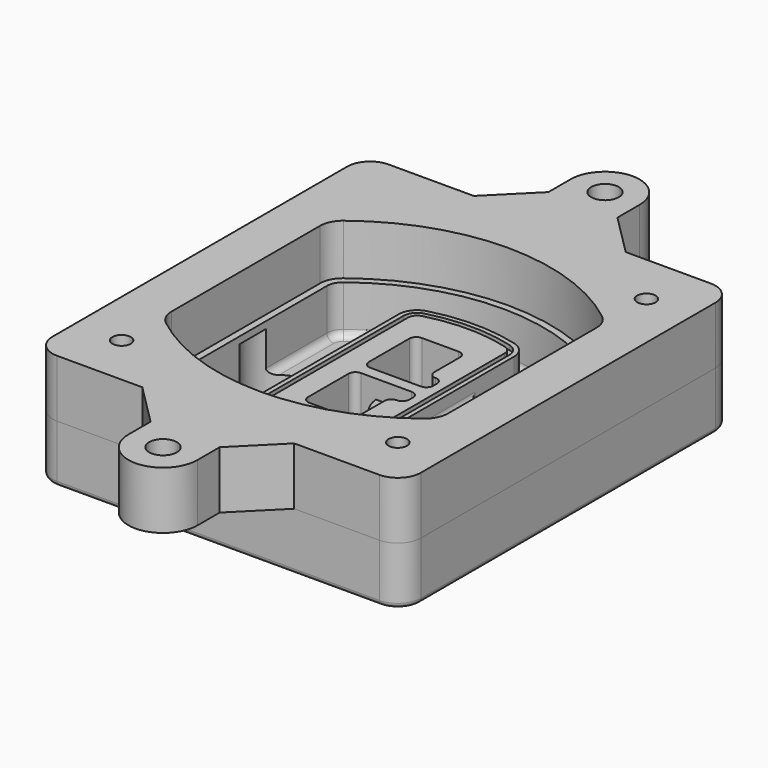
from build123d import *

# Parameters (mm, degrees)
F0_R      = 4
F1_DEPTH  = 25
F2_DEPTH  = 3
F3_DEPTH  = 18
F5_DEPTH  = 21
F6_DEPTH  = 2
F8_DEPTH  = 20
F9_DEPTH  = 16
F10_DEPTH = 25
F7_R      = 6
F7_R_2    = 4
F11_DEPTH = 6
F13_DEPTH = 9
F14_R     = 3
F15_R     = 2
F16_R     = 4
F16_R_2   = 6
F17_DEPTH = 25


with BuildPart() as f1:
    # F0 (on Top) → F1 (new body)
    with BuildSketch(Plane.XY):
        with BuildLine():
            ThreePointArc((-80, -80), (-77.0710678119, -87.0710678119), (-70, -90))
            Line((-70, -90), (70, -90))
            ThreePointArc((70, -90), (77.0710678119, -87.0710678119), (80, -80))
            Line((80, -80), (80, 80))
            ThreePointArc((80, 80), (77.0710678119, 87.0710678119), (70, 90))
            Line((70, 90), (-70, 90))
            ThreePointArc((-70, 90), (-77.0710678119, 87.0710678119), (-80, 80))
            Line((-80, 80), (-80, -80))
        make_face()
        with Locations((-60, -67.5)):
            Circle(F0_R, mode=Mode.SUBTRACT)
        with Locations((60, -67.5)):
            Circle(F0_R, mode=Mode.SUBTRACT)
        with Locations((-60, 67.5)):
            Circle(F0_R, mode=Mode.SUBTRACT)
        with BuildLine():
            ThreePointArc((-64, 40.2934422872), (-62.5820384798, 46.4328484224), (-58.6153846154, 51.3286200352))
            ThreePointArc((-58.6153846154, 51.3286200352), (0, 71.5), (58.6153846154, 51.3286200352))
            ThreePointArc((58.6153846154, 51.3286200352), (62.5820384798, 46.4328484224), (64, 40.2934422872))
            Line((64, 40.2934422872), (64, -40.2934422872))
            ThreePointArc((64, -40.2934422872), (62.5820384798, -46.4328484224), (58.6153846154, -51.3286200352))
            ThreePointArc((58.6153846154, -51.3286200352), (0, -71.5), (-58.6153846154, -51.3286200352))
            ThreePointArc((-58.6153846154, -51.3286200352), (-62.5820384798, -46.4328484224), (-64, -40.2934422872))
            Line((-64, -40.2934422872), (-64, 40.2934422872))
        make_face(mode=Mode.SUBTRACT)
        with Locations((60, 67.5)):
            Circle(F0_R, mode=Mode.SUBTRACT)
        with BuildLine():
            ThreePointArc((58.6153846154, 51.3286200352), (0, 71.5), (-58.6153846154, 51.3286200352))
            ThreePointArc((-58.6153846154, 51.3286200352), (-62.5820384798, 46.4328484224), (-64, 40.2934422872))
            Line((-64, 40.2934422872), (-64, -40.2934422872))
            ThreePointArc((-64, -40.2934422872), (-62.5820384798, -46.4328484224), (-58.6153846154, -51.3286200352))
            ThreePointArc((-58.6153846154, -51.3286200352), (0, -71.5), (58.6153846154, -51.3286200352))
            ThreePointArc((58.6153846154, -51.3286200352), (62.5820384798, -46.4328484224), (64, -40.2934422872))
            Line((64, -40.2934422872), (64, 40.2934422872))
            ThreePointArc((64, 40.2934422872), (62.5820384798, 46.4328484224), (58.6153846154, 51.3286200352))
        make_face()
        with BuildLine():
            Line((-60, -40.2934422872), (-60, 40.2934422872))
            ThreePointArc((-60, 40.2934422872), (-58.9871703427, 44.6787323838), (-56.1538461538, 48.1757121072))
            ThreePointArc((-56.1538461538, 48.1757121072), (0, 67.5), (56.1538461538, 48.1757121072))
            ThreePointArc((56.1538461538, 48.1757121072), (58.9871703427, 44.6787323838), (60, 40.2934422872))
            Line((60, 40.2934422872), (60, -40.2934422872))
            ThreePointArc((60, -40.2934422872), (58.9871703427, -44.6787323838), (56.1538461538, -48.1757121072))
            ThreePointArc((56.1538461538, -48.1757121072), (0, -67.5), (-56.1538461538, -48.1757121072))
            ThreePointArc((-56.1538461538, -48.1757121072), (-58.9871703427, -44.6787323838), (-60, -40.2934422872))
        make_face(mode=Mode.SUBTRACT)
        with BuildLine():
            ThreePointArc((-56.1538461538, 48.1757121072), (-58.9871703427, 44.6787323838), (-60, 40.2934422872))
            Line((-60, 40.2934422872), (-60, -40.2934422872))
            ThreePointArc((-60, -40.2934422872), (-58.9871703427, -44.6787323838), (-56.1538461538, -48.1757121072))
            ThreePointArc((-56.1538461538, -48.1757121072), (0, -67.5), (56.1538461538, -48.1757121072))
            ThreePointArc((56.1538461538, -48.1757121072), (58.9871703427, -44.6787323838), (60, -40.2934422872))
            Line((60, -40.2934422872), (60, 40.2934422872))
            ThreePointArc((60, 40.2934422872), (58.9871703427, 44.6787323838), (56.1538461538, 48.1757121072))
            ThreePointArc((56.1538461538, 48.1757121072), (0, 67.5), (-56.1538461538, 48.1757121072))
        make_face()
        with BuildLine():
            ThreePointArc((54.3076923077, 45.8110311612), (56.2910192399, 43.3631453548), (57, 40.2934422872))
            Line((57, 40.2934422872), (57, -40.2934422872))
            ThreePointArc((57, -40.2934422872), (56.2910192399, -43.3631453548), (54.3076923077, -45.8110311612))
            ThreePointArc((54.3076923077, -45.8110311612), (0, -64.5), (-54.3076923077, -45.8110311612))
            ThreePointArc((-54.3076923077, -45.8110311612), (-56.2910192399, -43.3631453548), (-57, -40.2934422872))
            Line((-57, -40.2934422872), (-57, 40.2934422872))
            ThreePointArc((-57, 40.2934422872), (-56.2910192399, 43.3631453548), (-54.3076923077, 45.8110311612))
            ThreePointArc((-54.3076923077, 45.8110311612), (0, 64.5), (54.3076923077, 45.8110311612))
        make_face(mode=Mode.SUBTRACT)
        with BuildLine():
            Line((57, -40.2934422872), (57, 40.2934422872))
            ThreePointArc((57, 40.2934422872), (56.2910192399, 43.3631453548), (54.3076923077, 45.8110311612))
            ThreePointArc((54.3076923077, 45.8110311612), (0, 64.5), (-54.3076923077, 45.8110311612))
            ThreePointArc((-54.3076923077, 45.8110311612), (-56.2910192399, 43.3631453548), (-57, 40.2934422872))
            Line((-57, 40.2934422872), (-57, -40.2934422872))
            ThreePointArc((-57, -40.2934422872), (-56.2910192399, -43.3631453548), (-54.3076923077, -45.8110311612))
            ThreePointArc((-54.3076923077, -45.8110311612), (0, -64.5), (54.3076923077, -45.8110311612))
            ThreePointArc((54.3076923077, -45.8110311612), (56.2910192399, -43.3631453548), (57, -40.2934422872))
        make_face()
    extrude(amount=-F1_DEPTH)

    # F0 (on Top) → F2 (join)
    with BuildSketch(Plane.XY):
        with BuildLine():
            ThreePointArc((-56.1538461538, 48.1757121072), (-58.9871703427, 44.6787323838), (-60, 40.2934422872))
            Line((-60, 40.2934422872), (-60, -40.2934422872))
            ThreePointArc((-60, -40.2934422872), (-58.9871703427, -44.6787323838), (-56.1538461538, -48.1757121072))
            ThreePointArc((-56.1538461538, -48.1757121072), (0, -67.5), (56.1538461538, -48.1757121072))
            ThreePointArc((56.1538461538, -48.1757121072), (58.9871703427, -44.6787323838), (60, -40.2934422872))
            Line((60, -40.2934422872), (60, 40.2934422872))
            ThreePointArc((60, 40.2934422872), (58.9871703427, 44.6787323838), (56.1538461538, 48.1757121072))
            ThreePointArc((56.1538461538, 48.1757121072), (0, 67.5), (-56.1538461538, 48.1757121072))
        make_face()
        with BuildLine():
            ThreePointArc((54.3076923077, 45.8110311612), (56.2910192399, 43.3631453548), (57, 40.2934422872))
            Line((57, 40.2934422872), (57, -40.2934422872))
            ThreePointArc((57, -40.2934422872), (56.2910192399, -43.3631453548), (54.3076923077, -45.8110311612))
            ThreePointArc((54.3076923077, -45.8110311612), (0, -64.5), (-54.3076923077, -45.8110311612))
            ThreePointArc((-54.3076923077, -45.8110311612), (-56.2910192399, -43.3631453548), (-57, -40.2934422872))
            Line((-57, -40.2934422872), (-57, 40.2934422872))
            ThreePointArc((-57, 40.2934422872), (-56.2910192399, 43.3631453548), (-54.3076923077, 45.8110311612))
            ThreePointArc((-54.3076923077, 45.8110311612), (0, 64.5), (54.3076923077, 45.8110311612))
        make_face(mode=Mode.SUBTRACT)
    extrude(amount=F2_DEPTH)

    # F0 (on Top) → F3 (cut)
    with BuildSketch(Plane.XY):
        with BuildLine():
            Line((57, -40.2934422872), (57, 40.2934422872))
            ThreePointArc((57, 40.2934422872), (56.2910192399, 43.3631453548), (54.3076923077, 45.8110311612))
            ThreePointArc((54.3076923077, 45.8110311612), (0, 64.5), (-54.3076923077, 45.8110311612))
            ThreePointArc((-54.3076923077, 45.8110311612), (-56.2910192399, 43.3631453548), (-57, 40.2934422872))
            Line((-57, 40.2934422872), (-57, -40.2934422872))
            ThreePointArc((-57, -40.2934422872), (-56.2910192399, -43.3631453548), (-54.3076923077, -45.8110311612))
            ThreePointArc((-54.3076923077, -45.8110311612), (0, -64.5), (54.3076923077, -45.8110311612))
            ThreePointArc((54.3076923077, -45.8110311612), (56.2910192399, -43.3631453548), (57, -40.2934422872))
        make_face()
    extrude(amount=-F3_DEPTH, mode=Mode.SUBTRACT)

    # F4 (on face) → F5 (join, through all)
    with BuildSketch(Plane.XY.offset(3)):
        with BuildLine():
            ThreePointArc((-25, -39.2465276821), (-23.3511545998, -44.1109737193), (-19.0842911877, -46.9702398883))
            ThreePointArc((-19.0842911877, -46.9702398883), (0, -49.5), (19.0842911877, -46.9702398883))
            ThreePointArc((19.0842911877, -46.9702398883), (23.3511545998, -44.1109737193), (25, -39.2465276821))
            Line((25, -39.2465276821), (25, 39.2465276821))
            ThreePointArc((25, 39.2465276821), (23.3511545998, 44.1109737193), (19.0842911877, 46.9702398883))
            ThreePointArc((19.0842911877, 46.9702398883), (0, 49.5), (-19.0842911877, 46.9702398883))
            ThreePointArc((-19.0842911877, 46.9702398883), (-23.3511545998, 44.1109737193), (-25, 39.2465276821))
            Line((-25, 39.2465276821), (-25, -39.2465276821))
        make_face()
        with BuildLine():
            ThreePointArc((18.5632183908, 45.0393118368), (21.7633659499, 42.89486221), (23, 39.2465276821))
            Line((23, 39.2465276821), (23, -39.2465276821))
            ThreePointArc((23, -39.2465276821), (21.7633659499, -42.89486221), (18.5632183908, -45.0393118368))
            ThreePointArc((18.5632183908, -45.0393118368), (0, -47.5), (-18.5632183908, -45.0393118368))
            ThreePointArc((-18.5632183908, -45.0393118368), (-21.7633659499, -42.89486221), (-23, -39.2465276821))
            Line((-23, -39.2465276821), (-23, 39.2465276821))
            ThreePointArc((-23, 39.2465276821), (-21.7633659499, 42.89486221), (-18.5632183908, 45.0393118368))
            ThreePointArc((-18.5632183908, 45.0393118368), (0, 47.5), (18.5632183908, 45.0393118368))
        make_face(mode=Mode.SUBTRACT)
        with BuildLine():
            Line((23, -39.2465276821), (23, 39.2465276821))
            ThreePointArc((23, 39.2465276821), (21.7633659499, 42.89486221), (18.5632183908, 45.0393118368))
            ThreePointArc((18.5632183908, 45.0393118368), (0, 47.5), (-18.5632183908, 45.0393118368))
            ThreePointArc((-18.5632183908, 45.0393118368), (-21.7633659499, 42.89486221), (-23, 39.2465276821))
            Line((-23, 39.2465276821), (-23, -39.2465276821))
            ThreePointArc((-23, -39.2465276821), (-21.7633659499, -42.89486221), (-18.5632183908, -45.0393118368))
            ThreePointArc((-18.5632183908, -45.0393118368), (0, -47.5), (18.5632183908, -45.0393118368))
            ThreePointArc((18.5632183908, -45.0393118368), (21.7633659499, -42.89486221), (23, -39.2465276821))
        make_face()
        with BuildLine():
            ThreePointArc((18.0421455939, 43.1083837852), (20.1755772999, 41.6787507007), (21, 39.2465276821))
            Line((21, 39.2465276821), (21, -39.2465276821))
            ThreePointArc((21, -39.2465276821), (20.1755772999, -41.6787507007), (18.0421455939, -43.1083837852))
            ThreePointArc((18.0421455939, -43.1083837852), (0, -45.5), (-18.0421455939, -43.1083837852))
            ThreePointArc((-18.0421455939, -43.1083837852), (-20.1755772999, -41.6787507007), (-21, -39.2465276821))
            Line((-21, -39.2465276821), (-21, 39.2465276821))
            ThreePointArc((-21, 39.2465276821), (-20.1755772999, 41.6787507007), (-18.0421455939, 43.1083837852))
            ThreePointArc((-18.0421455939, 43.1083837852), (0, 45.5), (18.0421455939, 43.1083837852))
        make_face(mode=Mode.SUBTRACT)
        with BuildLine():
            Line((21, -39.2465276821), (21, 39.2465276821))
            ThreePointArc((21, 39.2465276821), (20.1755772999, 41.6787507007), (18.0421455939, 43.1083837852))
            ThreePointArc((18.0421455939, 43.1083837852), (0, 45.5), (-18.0421455939, 43.1083837852))
            ThreePointArc((-18.0421455939, 43.1083837852), (-20.1755772999, 41.6787507007), (-21, 39.2465276821))
            Line((-21, 39.2465276821), (-21, -39.2465276821))
            ThreePointArc((-21, -39.2465276821), (-20.1755772999, -41.6787507007), (-18.0421455939, -43.1083837852))
            ThreePointArc((-18.0421455939, -43.1083837852), (0, -45.5), (18.0421455939, -43.1083837852))
            ThreePointArc((18.0421455939, -43.1083837852), (20.1755772999, -41.6787507007), (21, -39.2465276821))
        make_face()
        with BuildLine():
            Line((-8, -2.5), (14, -2.5))
            ThreePointArc((14, -2.5), (16.1213203436, -3.3786796564), (17, -5.5))
            Line((17, -5.5), (17, -7.5))
            ThreePointArc((17, -7.5), (16.1213203436, -9.6213203436), (14, -10.5))
            ThreePointArc((14, -10.5), (11.8786796564, -11.3786796564), (11, -13.5))
            Line((11, -13.5), (11, -27.5))
            ThreePointArc((11, -27.5), (10.1213203436, -29.6213203436), (8, -30.5))
            Line((8, -30.5), (-8, -30.5))
            ThreePointArc((-8, -30.5), (-10.1213203436, -29.6213203436), (-11, -27.5))
            Line((-11, -27.5), (-11, -5.5))
            ThreePointArc((-11, -5.5), (-10.1213203436, -3.3786796564), (-8, -2.5))
        make_face(mode=Mode.SUBTRACT)
        with BuildLine():
            ThreePointArc((-8, 2.5), (-10.1213203436, 3.3786796564), (-11, 5.5))
            Line((-11, 5.5), (-11, 27.5))
            ThreePointArc((-11, 27.5), (-10.1213203436, 29.6213203436), (-8, 30.5))
            Line((-8, 30.5), (8, 30.5))
            ThreePointArc((8, 30.5), (10.1213203436, 29.6213203436), (11, 27.5))
            Line((11, 27.5), (11, 13.5))
            ThreePointArc((11, 13.5), (11.8786796564, 11.3786796564), (14, 10.5))
            ThreePointArc((14, 10.5), (16.1213203436, 9.6213203436), (17, 7.5))
            Line((17, 7.5), (17, 5.5))
            ThreePointArc((17, 5.5), (16.1213203436, 3.3786796564), (14, 2.5))
            Line((14, 2.5), (-8, 2.5))
        make_face(mode=Mode.SUBTRACT)
    extrude(amount=-F5_DEPTH)

    # F4 (on face) → F6 (cut)
    with BuildSketch(Plane.XY.offset(3)):
        with BuildLine():
            Line((23, -39.2465276821), (23, 39.2465276821))
            ThreePointArc((23, 39.2465276821), (21.7633659499, 42.89486221), (18.5632183908, 45.0393118368))
            ThreePointArc((18.5632183908, 45.0393118368), (0, 47.5), (-18.5632183908, 45.0393118368))
            ThreePointArc((-18.5632183908, 45.0393118368), (-21.7633659499, 42.89486221), (-23, 39.2465276821))
            Line((-23, 39.2465276821), (-23, -39.2465276821))
            ThreePointArc((-23, -39.2465276821), (-21.7633659499, -42.89486221), (-18.5632183908, -45.0393118368))
            ThreePointArc((-18.5632183908, -45.0393118368), (0, -47.5), (18.5632183908, -45.0393118368))
            ThreePointArc((18.5632183908, -45.0393118368), (21.7633659499, -42.89486221), (23, -39.2465276821))
        make_face()
        with BuildLine():
            ThreePointArc((18.0421455939, 43.1083837852), (20.1755772999, 41.6787507007), (21, 39.2465276821))
            Line((21, 39.2465276821), (21, -39.2465276821))
            ThreePointArc((21, -39.2465276821), (20.1755772999, -41.6787507007), (18.0421455939, -43.1083837852))
            ThreePointArc((18.0421455939, -43.1083837852), (0, -45.5), (-18.0421455939, -43.1083837852))
            ThreePointArc((-18.0421455939, -43.1083837852), (-20.1755772999, -41.6787507007), (-21, -39.2465276821))
            Line((-21, -39.2465276821), (-21, 39.2465276821))
            ThreePointArc((-21, 39.2465276821), (-20.1755772999, 41.6787507007), (-18.0421455939, 43.1083837852))
            ThreePointArc((-18.0421455939, 43.1083837852), (0, 45.5), (18.0421455939, 43.1083837852))
        make_face(mode=Mode.SUBTRACT)
    extrude(amount=-F6_DEPTH, mode=Mode.SUBTRACT)

    # F7 (on face) → F8 (join)
    with BuildSketch(Plane(origin=(0, 0, -25), x_dir=(1, 0, 0), z_dir=(0, 0, -1))):
        with BuildLine():
            ThreePointArc((3.28842436, 0), (16.7567035675, 13.4682792075), (30.224982775, 0))
            Line((30.224982775, 0), (35.224982775, 0))
            ThreePointArc((35.224982775, 0), (16.7567035675, 18.4682792075), (-1.71157564, 0))
            Line((-1.71157564, 0), (3.28842436, 0))
        make_face()
        with BuildLine():
            Line((3.28842436, 0), (30.224982775, 0))
            ThreePointArc((30.224982775, 0), (16.7567035675, 13.4682792075), (3.28842436, 0))
        make_face()
        with BuildLine():
            ThreePointArc((3.28842436, 0), (16.7567035675, -13.4682792075), (30.224982775, 0))
            Line((30.224982775, 0), (3.28842436, 0))
        make_face()
        with BuildLine():
            Line((35.224982775, 0), (30.224982775, 0))
            ThreePointArc((30.224982775, 0), (16.7567035675, -13.4682792075), (3.28842436, 0))
            Line((3.28842436, 0), (-1.71157564, 0))
            ThreePointArc((-1.71157564, 0), (16.7567035675, -18.4682792075), (35.224982775, 0))
        make_face()
    extrude(amount=-F8_DEPTH)

    # F7 (on face) → F9 (cut)
    with BuildSketch(Plane(origin=(0, 0, -25), x_dir=(1, 0, 0), z_dir=(0, 0, -1))):
        with BuildLine():
            Line((3.28842436, 0), (30.224982775, 0))
            ThreePointArc((30.224982775, 0), (16.7567035675, 13.4682792075), (3.28842436, 0))
        make_face()
        with BuildLine():
            ThreePointArc((3.28842436, 0), (16.7567035675, -13.4682792075), (30.224982775, 0))
            Line((30.224982775, 0), (3.28842436, 0))
        make_face()
    extrude(amount=-F9_DEPTH, mode=Mode.SUBTRACT)

    # F7 (on face) → F10 (cut)
    with BuildSketch(Plane(origin=(0, 0, -25), x_dir=(1, 0, 0), z_dir=(0, 0, -1))):
        with BuildLine():
            Line((-59.0318229325, 0), (-32.0952645175, 0))
            ThreePointArc((-32.0952645175, 0), (-45.563543725, 13.4682792075), (-59.0318229325, 0))
        make_face()
        with BuildLine():
            ThreePointArc((-59.0318229325, 0), (-45.563543725, -13.4682792075), (-32.0952645175, 0))
            Line((-32.0952645175, 0), (-59.0318229325, 0))
        make_face()
    extrude(amount=-F10_DEPTH, mode=Mode.SUBTRACT)

    # F7 (on face) → F11 (cut)
    with BuildSketch(Plane(origin=(0, 0, -25), x_dir=(1, 0, 0), z_dir=(0, 0, -1))):
        with Locations((60, -67.5)):
            Circle(F7_R)
        with Locations((60, -67.5)):
            Circle(F7_R_2, mode=Mode.SUBTRACT)
        with Locations((60, -67.5)):
            Circle(F7_R)
        with Locations((60, -67.5)):
            Circle(F7_R_2, mode=Mode.SUBTRACT)
        with Locations((-60, -67.5)):
            Circle(F7_R)
        with Locations((-60, -67.5)):
            Circle(F7_R_2, mode=Mode.SUBTRACT)
        with Locations((-60, -67.5)):
            Circle(F7_R)
        with Locations((-60, -67.5)):
            Circle(F7_R_2, mode=Mode.SUBTRACT)
        with Locations((-60, 67.5)):
            Circle(F7_R)
        with Locations((-60, 67.5)):
            Circle(F7_R_2, mode=Mode.SUBTRACT)
        with Locations((-60, 67.5)):
            Circle(F7_R)
        with Locations((-60, 67.5)):
            Circle(F7_R_2, mode=Mode.SUBTRACT)
        with Locations((60, 67.5)):
            Circle(F7_R)
        with Locations((60, 67.5)):
            Circle(F7_R_2, mode=Mode.SUBTRACT)
        with Locations((60, 67.5)):
            Circle(F7_R)
        with Locations((60, 67.5)):
            Circle(F7_R_2, mode=Mode.SUBTRACT)
    extrude(amount=-F11_DEPTH, mode=Mode.SUBTRACT)

    # F12 (on face) → F13 (cut, through all)
    with BuildSketch(Plane(origin=(0, 0, -9), x_dir=(1, 0, 0), z_dir=(0, 0, -1))):
        with BuildLine():
            Line((11, 13.5), (11, 17.5481537753))
            ThreePointArc((11, 17.5481537753), (2.5696536419, 11.8239143813), (-1.5415842455, 2.5))
            Line((-1.5415842455, 2.5), (3.5224848595, 2.5))
            ThreePointArc((3.5224848595, 2.5), (6.1857188154, 8.3455872281), (11.2536447004, 12.2927168648))
            ThreePointArc((11.2536447004, 12.2927168648), (11.0640958889, 12.8831798879), (11, 13.5))
        make_face()
        with BuildLine():
            ThreePointArc((11.2536447004, -12.2927168648), (6.1857188154, -8.3455872281), (3.5224848595, -2.5))
            Line((3.5224848595, -2.5), (-1.5415842455, -2.5))
            ThreePointArc((-1.5415842455, -2.5), (2.5696536419, -11.8239143813), (11, -17.5481537753))
            Line((11, -17.5481537753), (11, -13.5))
            ThreePointArc((11, -13.5), (11.0640958889, -12.8831798879), (11.2536447004, -12.2927168648))
        make_face()
        with BuildLine():
            ThreePointArc((11.2536447004, 12.2927168648), (6.1857188154, 8.3455872281), (3.5224848595, 2.5))
            Line((3.5224848595, 2.5), (14, 2.5))
            ThreePointArc((14, 2.5), (16.1213203436, 3.3786796564), (17, 5.5))
            Line((17, 5.5), (17, 7.5))
            ThreePointArc((17, 7.5), (16.1213203436, 9.6213203436), (14, 10.5))
            ThreePointArc((14, 10.5), (12.3601599782, 10.9878446101), (11.2536447004, 12.2927168648))
        make_face()
        with BuildLine():
            Line((14, -2.5), (3.5224848595, -2.5))
            ThreePointArc((3.5224848595, -2.5), (6.1857188154, -8.3455872281), (11.2536447004, -12.2927168648))
            ThreePointArc((11.2536447004, -12.2927168648), (12.3601599782, -10.9878446101), (14, -10.5))
            ThreePointArc((14, -10.5), (16.1213203436, -9.6213203436), (17, -7.5))
            Line((17, -7.5), (17, -5.5))
            ThreePointArc((17, -5.5), (16.1213203436, -3.3786796564), (14, -2.5))
        make_face()
    extrude(amount=F13_DEPTH, mode=Mode.SUBTRACT)

    # F14
    f14_edges = [f1.edges().sort_by_distance(p)[0] for p in [
        (-57, -23.703476, -18),
        (-57, 23.703476, -18),
        (25, 0, -5),
        (25, 16.526506, -11.5),
        (25, -16.526506, -11.5),
        (25, -27.886517, -18),
        (35.224983, 0, -18),
    ]]
    fillet(f14_edges, radius=F14_R)

    # F15
    f15_edges = [f1.edges().sort_by_distance(p)[0] for p in [
        (0, -90, -25),
    ]]
    fillet(f15_edges, radius=F15_R)


with BuildPart() as f17:
    # F16 (on face) → F17 (new body)
    with BuildSketch(Plane.XY):
        with BuildLine():
            Line((-33, 90), (-70, 90))
            ThreePointArc((-70, 90), (-77.0710678119, 87.0710678119), (-80, 80))
            Line((-80, 80), (-80, -80))
            ThreePointArc((-80, -80), (-77.0710678119, -87.0710678119), (-70, -90))
            Line((-70, -90), (-33, -90))
            Line((-33, -90), (33, -90))
            Line((33, -90), (70, -90))
            ThreePointArc((70, -90), (77.0710678119, -87.0710678119), (80, -80))
            Line((80, -80), (80, 80))
            ThreePointArc((80, 80), (77.0710678119, 87.0710678119), (70, 90))
            Line((70, 90), (33, 90))
            Line((33, 90), (-33, 90))
        make_face()
        with Locations((-60, -67.5)):
            Circle(F16_R, mode=Mode.SUBTRACT)
        with Locations((60, -67.5)):
            Circle(F16_R, mode=Mode.SUBTRACT)
        with BuildLine():
            ThreePointArc((60, -40.2934422872), (58.9871703427, -44.6787323838), (56.1538461538, -48.1757121072))
            ThreePointArc((56.1538461538, -48.1757121072), (0, -67.5), (-56.1538461538, -48.1757121072))
            ThreePointArc((-56.1538461538, -48.1757121072), (-58.9871703427, -44.6787323838), (-60, -40.2934422872))
            Line((-60, -40.2934422872), (-60, 40.2934422872))
            ThreePointArc((-60, 40.2934422872), (-58.9871703427, 44.6787323838), (-56.1538461538, 48.1757121072))
            ThreePointArc((-56.1538461538, 48.1757121072), (0, 67.5), (56.1538461538, 48.1757121072))
            ThreePointArc((56.1538461538, 48.1757121072), (58.9871703427, 44.6787323838), (60, 40.2934422872))
            Line((60, 40.2934422872), (60, -40.2934422872))
        make_face(mode=Mode.SUBTRACT)
        with Locations((60, 67.5)):
            Circle(F16_R, mode=Mode.SUBTRACT)
        with BuildLine():
            Line((-15, 108), (-33, 90))
            Line((-33, 90), (33, 90))
            Line((33, 90), (15, 108))
            Line((15, 108), (15, 120))
            ThreePointArc((15, 120), (0, 135), (-15, 120))
            Line((-15, 120), (-15, 108))
        make_face()
        with Locations((0, 120)):
            Circle(F16_R_2, mode=Mode.SUBTRACT)
        with BuildLine():
            Line((33, -90), (-33, -90))
            Line((-33, -90), (-15, -108))
            Line((-15, -108), (-15, -120))
            ThreePointArc((-15, -120), (0, -135), (15, -120))
            Line((15, -120), (15, -108))
            Line((15, -108), (33, -90))
        make_face()
        with Locations((0, -120)):
            Circle(F16_R_2, mode=Mode.SUBTRACT)
    extrude(amount=F17_DEPTH)


solid = Compound([f1.part, f17.part])
